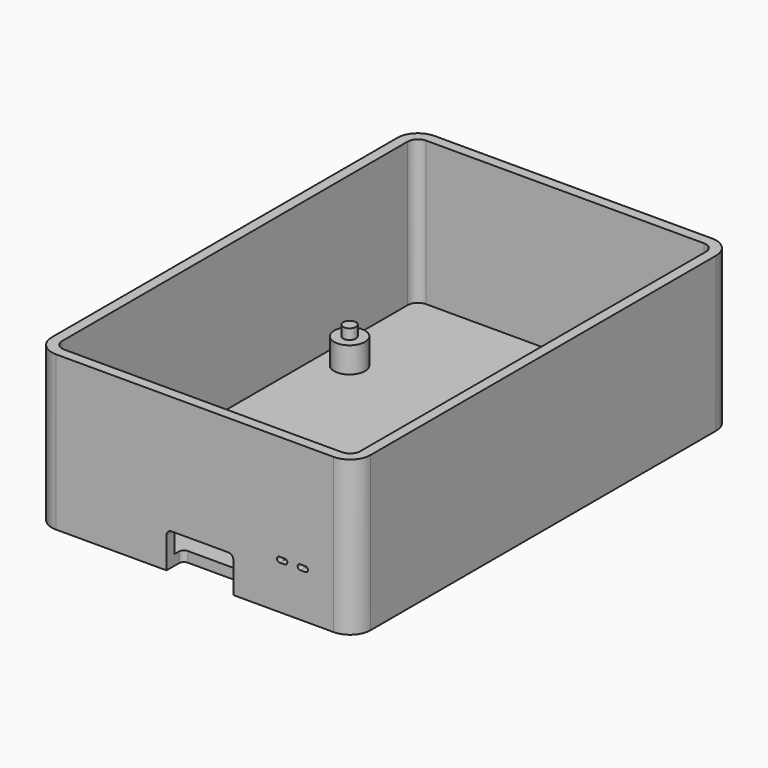
from build123d import *

# Parameters (mm, degrees)
F0_W      = 62
F0_H      = 92
F1_DEPTH  = 2
F2_W      = 62
F2_H      = 92
F2_W_2    = 58
F2_H_2    = 88
F2_R      = 3
F3_DEPTH  = 28
F4_DEPTH  = 23
F5_R      = 1.25
F6_DEPTH  = 2
F7_R      = 1.25
F8_DEPTH  = 2
F9_R      = 1.25
F10_DEPTH = 2
F11_R     = 1.25
F12_DEPTH = 2
F14_DEPTH = 4
F15_R     = 1
F16_R     = 2
F17_R     = 4
F18_SIZE2 = 1
F18_SIZE  = 0.3639702343


with BuildPart() as f1:
    # F0 (on Top) → F1 (new body)
    with BuildSketch(Plane.XY):
        with Locations((31, 46)):
            Rectangle(F0_W, F0_H)
    extrude(amount=F1_DEPTH)

    # F2 (on face) → F3 (join)
    with BuildSketch(Plane.XY.offset(2)):
        with Locations((31, 46)):
            Rectangle(F2_W, F2_H)
        with Locations((31, 46)):
            Rectangle(F2_W_2, F2_H_2, mode=Mode.SUBTRACT)
        with Locations((7.5, 67)):
            Circle(F2_R)
        with Locations((56.5, 67)):
            Circle(F2_R)
        with Locations((7.5, 9)):
            Circle(F2_R)
        with Locations((56.5, 9)):
            Circle(F2_R)
    extrude(amount=F3_DEPTH)

    # F4 (cut): faces of the model
    f4_faces = [f1.faces().sort_by_distance(p)[0] for p in [
        (7.5, 67, 30),
        (56.5, 67, 30),
        (56.5, 9, 30),
        (7.5, 9, 30),
    ]]
    extrude(f4_faces, amount=-F4_DEPTH, mode=Mode.SUBTRACT)

    # F5 (on face) → F6 (join)
    with BuildSketch(Plane.XY.offset(7)):
        with Locations((7.5, 9)):
            Circle(F5_R)
    extrude(amount=F6_DEPTH)

    # F7 (on face) → F8 (join)
    with BuildSketch(Plane.XY.offset(7)):
        with Locations((56.5, 9)):
            Circle(F7_R)
    extrude(amount=F8_DEPTH)

    # F9 (on face) → F10 (join)
    with BuildSketch(Plane.XY.offset(7)):
        with Locations((56.5, 67)):
            Circle(F9_R)
    extrude(amount=F10_DEPTH)

    # F11 (on face) → F12 (join)
    with BuildSketch(Plane.XY.offset(7)):
        with Locations((7.5, 67)):
            Circle(F11_R)
    extrude(amount=F12_DEPTH)

    # F13 (on face) → F14 (cut)
    with BuildSketch(Plane.XZ):
        with BuildLine():
            ThreePointArc((38.5, 6), (38.2071067812, 6.7071067812), (37.5, 7))
            Line((37.5, 7), (26.5, 7))
            ThreePointArc((26.5, 7), (25.7928932188, 6.7071067812), (25.5, 6))
            Line((25.5, 6), (25.5, 0))
            Line((25.5, 0), (38.5, 0))
            Line((38.5, 0), (38.5, 6))
        make_face()
        with BuildLine():
            Line((48.5, 9.5), (47.5, 9.5))
            ThreePointArc((47.5, 9.5), (47.1464466094, 9.3535533906), (47, 9))
            ThreePointArc((47, 9), (47.1464466094, 8.6464466094), (47.5, 8.5))
            Line((47.5, 8.5), (48.5, 8.5))
            ThreePointArc((48.5, 8.5), (48.8535533906, 8.6464466094), (49, 9))
            ThreePointArc((49, 9), (48.8535533906, 9.3535533906), (48.5, 9.5))
        make_face()
        with BuildLine():
            Line((52.5, 9.5), (51.5, 9.5))
            ThreePointArc((51.5, 9.5), (51.1464466094, 9.3535533906), (51, 9))
            ThreePointArc((51, 9), (51.1464466094, 8.6464466094), (51.5, 8.5))
            Line((51.5, 8.5), (52.5, 8.5))
            ThreePointArc((52.5, 8.5), (52.8535533906, 8.6464466094), (53, 9))
            ThreePointArc((53, 9), (52.8535533906, 9.3535533906), (52.5, 9.5))
        make_face()
    extrude(amount=-F14_DEPTH, mode=Mode.SUBTRACT)

    # F15
    f15_edges = [f1.edges().sort_by_distance(p)[0] for p in [
        (25.5, 4, 1),
        (38.5, 4, 1),
    ]]
    fillet(f15_edges, radius=F15_R)

    # F16
    f16_edges = [f1.edges().sort_by_distance(p)[0] for p in [
        (2, 90, 16),
        (60, 90, 16),
        (60, 2, 16),
        (2, 2, 16),
    ]]
    fillet(f16_edges, radius=F16_R)

    # F17
    f17_edges = [f1.edges().sort_by_distance(p)[0] for p in [
        (0, 92, 15),
        (62, 92, 15),
        (62, 0, 15),
        (0, 0, 15),
    ]]
    fillet(f17_edges, radius=F17_R)

    # F18
    f18_edges = [f1.edges().sort_by_distance(p)[0] for p in [
        (51, 2, 9),
        (47, 2, 9),
    ]]
    f18_side = f1.faces().sort_by_distance((30.90829, 2, 16.53228))[0]
    chamfer(f18_edges, length=F18_SIZE, length2=F18_SIZE2, reference=f18_side)


solid = f1.part
